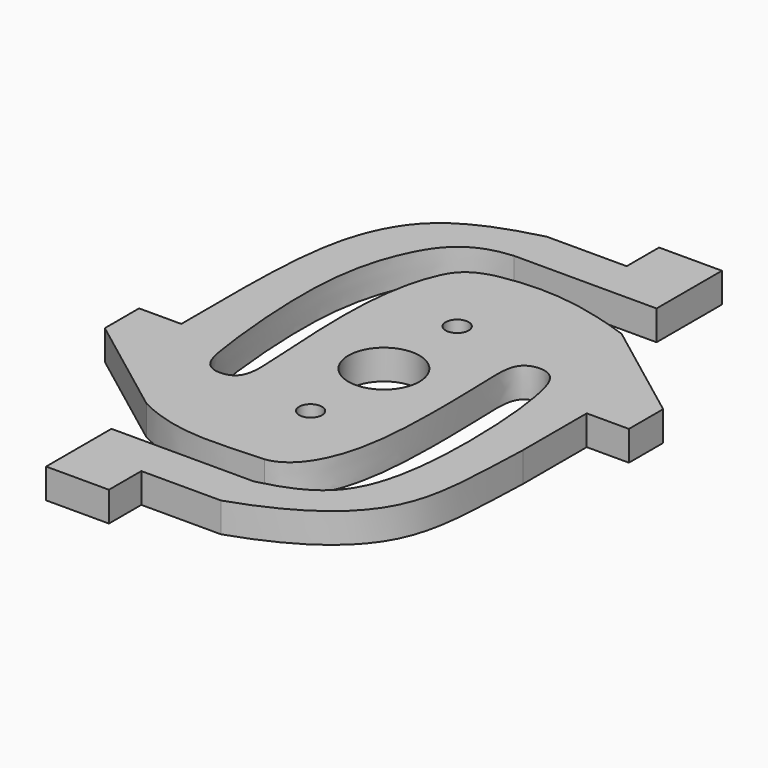
from build123d import *

# Parameters (mm, degrees)
F0_R     = 0.5
F0_R_2   = 1.55
F1_DEPTH = 1.3


with BuildPart() as f1:
    # F0 (on Top) → F1 (new body)
    with BuildSketch(Plane.XY):
        with BuildLine():
            Line((1.74, 12.8417331725), (1.74, 11.075))
            Line((1.74, 11.075), (-1.74, 11.075))
            add(Edge.make_bspline(
                [(-1.74, 11.075), (-4.7273327715, 10.3428384437), (-6.8791150281, 8.3013526165), (-7.4224630279, 5.0783587399), (-7.455, 1.74)],
                knots=[0, 0, 0, 0, 0.4812414042, 1, 1, 1, 1], degree=3))
            Line((-7.455, 1.74), (-7.455, -1.74))
            Line((-7.455, -1.74), (-9.2958863825, -1.74))
            Line((-9.2958863825, -1.74), (-9.2958863825, -3.6095678806))
            Line((-9.2958863825, -3.6095678806), (-4.7128800682, -7.068238443))
            add(Edge.make_bspline(
                [(1.0039600311, -7.7729844488), (-0.9153612579, -7.8135496005), (-2.5199967815, -8.1679134054), (-4.7128800682, -7.068238443)],
                knots=[0, 0, 0, 0, 5.7601152465, 5.7601152465, 5.7601152465, 5.7601152465], degree=3))
            add(Edge.make_bspline(
                [(1.7481137375, -9.2733869854), (3.5837007446, -8.8349313247), (5.3738685454, -7.4678090553), (5.7513956714, -2.325766588), (5.4116755269, 1.7196976377), (4.8190155411, 3.4428771073), (3.2248494118, 3.3085816476), (3.2883711109, 1.2982041977), (3.4005626002, -2.3354192905), (3.0391269919, -6.1401647206), (1.7908887673, -7.656466159), (1.0039600311, -7.7729844488)],
                knots=[0, 0, 0, 0, 0.1294281206, 0.2739256776, 0.4092059965, 0.4897791541, 0.5565672607, 0.640967931, 0.7697715286, 0.8994280533, 1, 1, 1, 1], degree=3))
            Line((1.7481137375, -9.2733869854), (-4.4767024619, -9.2733869854))
            Line((-4.4767024619, -9.2733869854), (-4.4767024619, -12.8405413015))
            Line((-4.4767024619, -12.8405413015), (-1.7318862625, -12.8405413015))
            Line((-1.7318862625, -12.8405413015), (-1.7318862625, -11.0738081289))
            Line((-1.7318862625, -11.0738081289), (1.7481137375, -11.0738081289))
            add(Edge.make_bspline(
                [(1.7481137375, -11.0738081289), (4.0658040753, -10.3016922018), (7.4380575358, -8.1181910977), (7.3480322026, -4.383626394), (7.4631137375, -1.7388081289)],
                knots=[0, 0, 0, 0, 0.4946799246, 1, 1, 1, 1], degree=3))
            Line((7.4631137375, -1.7388081289), (7.4631137375, 1.7411918711))
            Line((7.4631137375, 1.7411918711), (9.30400012, 1.7411918711))
            Line((9.30400012, 1.7411918711), (9.30400012, 3.6107597517))
            Line((9.30400012, 3.6107597517), (4.7209938057, 7.069430314))
            add(Edge.make_bspline(
                [(-1.1639558943, 7.7515612356), (0.7068699924, 8.1048281863), (2.4233902805, 7.8737586737), (4.7209938057, 7.069430314)],
                knots=[0, 0, 0, 0, 5.924351067, 5.924351067, 5.924351067, 5.924351067], degree=3))
            add(Edge.make_bspline(
                [(-1.74, 9.2745788564), (-3.443182133, 9.1410607311), (-4.8682070918, 7.3841096057), (-5.8262158887, 3.5967619402), (-5.3256497119, -1.7918147689), (-4.937975165, -3.821278321), (-3.2499785962, -3.7225747303), (-3.370712447, -1.488657614), (-3.6929877497, 3.2719045649), (-3.0435014985, 6.462596737), (-2.3030377738, 7.5227073453), (-1.1639558943, 7.7515612356)],
                knots=[0, 0, 0, 0, 0.1219298731, 0.2499784576, 0.4029018598, 0.4883700846, 0.5540117031, 0.6422801879, 0.7880165621, 0.9031486216, 1, 1, 1, 1], degree=3))
            Line((-1.74, 9.2745788564), (4.4848161994, 9.2745788564))
            Line((4.4848161994, 9.2745788564), (4.4848161994, 12.8417331725))
            Line((4.4848161994, 12.8417331725), (1.74, 12.8417331725))
        make_face()
        with Locations((0, -4)):
            Circle(F0_R, mode=Mode.SUBTRACT)
        Circle(F0_R_2, mode=Mode.SUBTRACT)
        with Locations((0, 4)):
            Circle(F0_R, mode=Mode.SUBTRACT)
    extrude(amount=F1_DEPTH)


solid = f1.part
